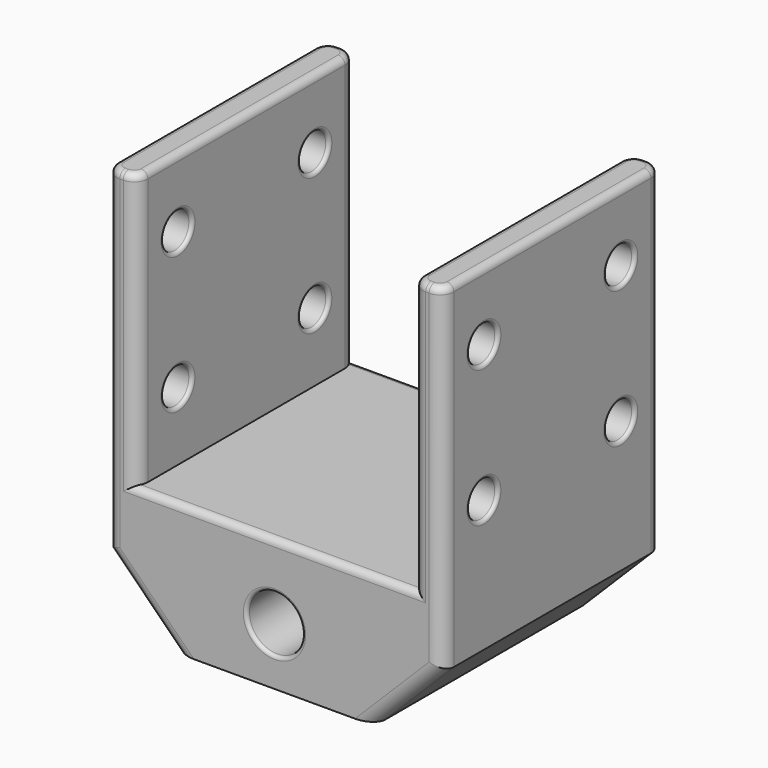
from build123d import *

# Parameters (mm, degrees)
F4_W      = 49.2
F4_H      = 40
F5_DEPTH  = 19.25
F6_W      = 4.5
F6_H      = 40
F7_DEPTH  = 40
F8_R      = 4.05
F9_DEPTH  = 40
F10_SIZE  = 10
F11_R     = 2.6
F12_DEPTH = 49.2
F13_R     = 2
F14_R     = 0.5
F15_R     = 1


with BuildPart() as f5:
    # F4 (on Top) → F5 (new body)
    with BuildSketch(Plane.XY):
        Rectangle(F4_W, F4_H)
    extrude(amount=F5_DEPTH)

    # F6 (on face) → F7 (join)
    with BuildSketch(Plane.XY.offset(19.25)):
        with Locations((-22.35, 0)):
            Rectangle(F6_W, F6_H)
        with Locations((22.35, 0)):
            Rectangle(F6_W, F6_H)
    extrude(amount=F7_DEPTH)

    # F8 (on face) → F9 (cut, through all)
    with BuildSketch(Plane.XZ.offset(20)):
        with Locations((0, 8.35)):
            Circle(F8_R)
    extrude(amount=-F9_DEPTH, mode=Mode.SUBTRACT)

    # F10
    f10_edges = [f5.edges().sort_by_distance(p)[0] for p in [
        (-24.6, 0, 0),
        (24.6, 0, 0),
    ]]
    chamfer(f10_edges, length=F10_SIZE)

    # F11 (on face) → F12 (cut, through all)
    with BuildSketch(Plane.YZ.offset(24.6)):
        with Locations((-12.5, 49.25)):
            Circle(F11_R)
        with Locations((-12.5, 29.25)):
            Circle(F11_R)
        with Locations((12.5, 49.25)):
            Circle(F11_R)
        with Locations((12.5, 29.25)):
            Circle(F11_R)
    extrude(amount=-F12_DEPTH, mode=Mode.SUBTRACT)

    # F13
    f13_edges = [f5.edges().sort_by_distance(p)[0] for p in [
        (-20.1, -20, 39.25),
        (-24.6, -20, 34.625),
        (20.1, -20, 39.25),
        (24.6, -20, 34.625),
        (-19.6, -20, 5),
        (19.6, -20, 5),
        (24.6, 20, 34.625),
        (20.1, 20, 39.25),
        (19.6, 20, 5),
        (-20.1, 20, 39.25),
        (-24.6, 20, 34.625),
        (-19.6, 20, 5),
    ]]
    fillet(f13_edges, radius=F13_R)

    # F14
    f14_edges = [f5.edges().sort_by_distance(p)[0] for p in [
        (4.05, 0, 8.35),
        (-4.05, -20, 8.35),
        (-4.05, 20, 8.35),
        (24.6, 9.9, 29.25),
        (22.35, 15.1, 29.25),
        (20.1, 9.9, 29.25),
        (-20.1, 9.9, 29.25),
        (-22.35, 15.1, 29.25),
        (-24.6, 9.9, 29.25),
        (24.6, 9.9, 49.25),
        (22.35, 15.1, 49.25),
        (20.1, 9.9, 49.25),
        (-20.1, 9.9, 49.25),
        (-22.35, 15.1, 49.25),
        (-24.6, 9.9, 49.25),
        (24.6, -15.1, 49.25),
        (22.35, -9.9, 49.25),
        (20.1, -15.1, 49.25),
        (-20.1, -15.1, 49.25),
        (-22.35, -9.9, 49.25),
        (-24.6, -15.1, 49.25),
        (24.6, -15.1, 29.25),
        (22.35, -9.9, 29.25),
        (20.1, -15.1, 29.25),
        (-20.1, -15.1, 29.25),
        (-22.35, -9.9, 29.25),
        (-24.6, -15.1, 29.25),
    ]]
    fillet(f14_edges, radius=F14_R)

    # F15
    f15_edges = [f5.edges().sort_by_distance(p)[0] for p in [
        (22.35, 20, 59.25),
        (24.014214, 19.414214, 59.25),
        (20.685786, 19.414214, 59.25),
        (24.6, 0, 59.25),
        (20.1, 0, 59.25),
        (24.014214, -19.414214, 59.25),
        (20.685786, -19.414214, 59.25),
        (22.35, -20, 59.25),
        (-20.1, 0, 59.25),
        (-20.685786, -19.414214, 59.25),
        (-20.685786, 19.414214, 59.25),
        (-22.35, -20, 59.25),
        (-22.35, 20, 59.25),
        (-24.014214, -19.414214, 59.25),
        (-24.014214, 19.414214, 59.25),
        (-24.6, 0, 59.25),
        (0, 20, 19.25),
        (0, -20, 19.25),
    ]]
    fillet(f15_edges, radius=F15_R)


solid = f5.part
